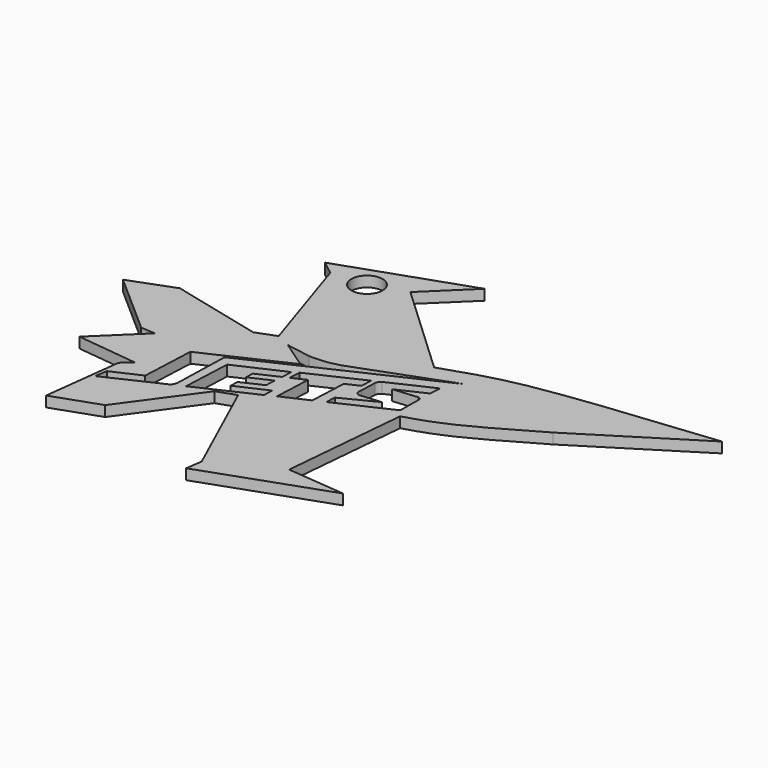
from build123d import *

# Parameters (mm, degrees)
F1_DEPTH = 2
F3_DEPTH = 25.4
F4_R     = 2.9673782323
F5_DEPTH = 25.4


with BuildPart() as f1:
    # F0 (on Top) → F1 (new body)
    with BuildSketch(Plane.XY):
        with BuildLine():
            Line((36.5334041417, 20.6077042967), (34.7164385021, 5.6545715779))
            Line((34.7164385021, 5.6545715779), (43.504524976, 8.7329633534))
            Line((43.504524976, 8.7329633534), (53.3858016133, 22.3565343767))
            Line((53.3858016133, 22.3565343767), (56.9245554507, 23.5919579864))
            Line((56.9245554507, 23.5919579864), (66.0541206598, 3.5111056641))
            Line((66.0541206598, 3.5111056641), (65.5934512615, 0.3702012473))
            Line((65.5934512615, 0.3702012473), (88.8780280948, 8.5993725806))
            Line((88.8780280948, 8.5993725806), (77.8220444918, 9.6044624224))
            Line((77.8220444918, 9.6044624224), (79.9770836988, 33.3098837159))
            add(Edge.make_bspline(
                [(100.9928658605, 43.4244535863), (95.8205314108, 40.4245140318), (87.218727926, 35.4354920021), (82.0412871818, 33.9157803728), (79.9770836988, 33.3098837159)],
                knots=[0, 0, 0, 0, 0.6013081395, 1, 1, 1, 1], degree=3))
            Line((100.9928658605, 43.4244535863), (122.4057301879, 56.8480975926))
            Line((122.4057301879, 56.8480975926), (100.9928658605, 54.5836277306))
            add(Edge.make_bspline(
                [(74.1065740585, 48.7466789782), (77.7375523931, 49.9883488185), (85.5402467252, 52.6566022015), (95.6093908771, 53.9122791626), (100.9928658605, 54.5836277306)],
                knots=[0, 0, 0, 0, 0.4653492986, 1, 1, 1, 1], degree=3))
            Line((74.1065740585, 48.7466789782), (56.1992712319, 65.4858723283))
            Line((56.1992712319, 65.4858723283), (64.1599148512, 73.2015818357))
            Line((64.1599148512, 73.2015818357), (40.3392016888, 64.9551600218))
            Line((40.3392016888, 64.9551600218), (43.0131666362, 62.9139691591))
            Line((43.0131666362, 62.9139691591), (49.7575812042, 42.1915054321))
            Line((49.7575812042, 42.1915054321), (46.0408888757, 40.785189718))
            Line((46.0408888757, 40.785189718), (28.6829099059, 45.0443252921))
            Line((28.6829099059, 45.0443252921), (20.3454550356, 41.9102460146))
            Line((20.3454550356, 41.9102460146), (32.1155525744, 31.5474160016))
            Line((32.1155525744, 31.5474160016), (34.8427295685, 31.390786171))
            Line((34.8427295685, 31.390786171), (26.7557948828, 23.5558375716))
            Line((26.7557948828, 23.5558375716), (38.4109728038, 22.2089737654))
            Line((38.4109728038, 22.2089737654), (36.5334041417, 20.6077042967))
        make_face()
    extrude(amount=F1_DEPTH)

    # F2 (on face) → F3 (cut)
    with BuildSketch(Plane.XY.offset(2)):
        with BuildLine():
            Line((42.2181976585, 19.8732110921), (36.8692806095, 17.4346802651))
            Line((36.8692806095, 17.4346802651), (36.4842974601, 15.086657103))
            Line((36.4842974601, 15.086657103), (46.7783554459, 19.8987160716))
            add(Edge.make_bspline(
                [(46.7783554459, 19.8987160716), (46.8745176, 19.9704084061), (47.0739666013, 20.1191047892), (47.2980762453, 20.485200609), (47.3842570525, 20.8264985477), (47.4302483861, 21.0086359383)],
                knots=[0, 0, 0, 0, 0.3027331314, 0.6278958833, 1, 1, 1, 1], degree=3))
            Line((47.4302483861, 21.0086359383), (47.7455708418, 31.8560887995))
            Line((47.7455708418, 31.8560887995), (81.0400521274, 47.3815603972))
            Line((81.0400521274, 47.3815603972), (62.989893266, 40.6838828661))
            add(Edge.make_bspline(
                [(62.989893266, 40.6838828661), (62.8558315332, 40.6463925764), (62.5252333481, 40.5539409762), (61.561398363, 40.2753929938), (60.1603447931, 40.0500849593), (58.6709939197, 39.9709989719), (57.7632965831, 39.984203494), (57.3223569205, 39.9906179643)],
                knots=[0, 0, 0, 0, 0.128570723, 0.3170572751, 0.5463912938, 0.7796467371, 1, 1, 1, 1], degree=3))
            Line((57.3223569205, 39.9906179643), (52.6017494717, 40.801062884))
            Line((52.6017494717, 40.801062884), (57.934057, 37.1581308102))
            Line((57.934057, 37.1581308102), (42.6651981272, 30.0381449865))
            Line((42.6651981272, 30.0381449865), (42.2181976585, 19.8732110921))
        make_face()
        Polygon((49.5022008402, 30.2405287443), (49.0949496514, 20.9795062106), (59.8999263935, 26.0145180069), (59.9547064443, 27.8990143615), (54.1489528303, 25.2522151997), (54.2186230073, 26.8365373498), (58.1639420177, 28.6762698182), (58.2499672688, 30.6325115923), (54.2469362683, 28.8075600354), (54.2916153656, 30.3445720468), (58.3938732965, 32.2574863357), (58.4538725188, 34.3215281581), align=None)
        Polygon((59.5222907582, 34.9345568584), (59.428932466, 32.8115593767), (59.4646008131, 32.7350683593), (61.9832756911, 33.9087458252), (61.6749329049, 26.8969320603), (66.5988146686, 29.1416925155), (66.910579019, 36.231313745), (69.3646524393, 37.3756669746), (69.4611082747, 39.5691035793), align=None)
        with BuildLine():
            Line((68.6329693369, 31.9457548078), (68.5782904095, 30.0647372126))
            Line((68.5782904095, 30.0647372126), (78.7814682825, 34.8225571923))
            Line((78.7814682825, 34.8225571923), (78.8403507658, 38.8965850372))
            add(Edge.make_bspline(
                [(78.2723558252, 39.7925434403), (78.3906581343, 39.7604877829), (78.6166051238, 39.6992643009), (78.8326978206, 39.4449395511), (78.8350317991, 39.281221064), (78.8383302277, 39.0426983364), (78.8403507658, 38.8965850372)],
                knots=[0, 0, 0, 0, 0.2775927016, 0.5301776076, 0.7121980765, 1, 1, 1, 1], degree=3))
            Line((78.2723558252, 39.7925434403), (73.6286103285, 39.3689603356))
            Line((73.6286103285, 39.3689603356), (78.8465645596, 41.8021323534))
            Line((78.8465645596, 41.8021323534), (79.0354909806, 44.0337115572))
            Line((79.0354909806, 44.0337115572), (70.9420511465, 40.2596785817))
            add(Edge.make_bspline(
                [(70.3706405965, 39.3610387878), (70.3940565505, 39.4260226012), (70.4447676448, 39.5667557219), (70.5089015879, 39.8524246499), (70.812566625, 40.1149514275), (70.9043252634, 40.2175116908), (70.9420511465, 40.2596785817)],
                knots=[0, 0, 0, 0, 0.2238252163, 0.4847302664, 0.788150674, 1, 1, 1, 1], degree=3))
            Line((70.3706405965, 39.3610387878), (70.2906058242, 36.2328217133))
            add(Edge.make_bspline(
                [(70.9504246956, 34.8178355773), (70.8567559171, 34.8408667038), (70.6527174927, 34.8910353388), (70.2713296013, 35.1507757935), (70.2107102416, 35.6389400995), (70.2627540341, 36.0257931705), (70.2906058242, 36.2328217133)],
                knots=[0, 0, 0, 0, 0.2072963417, 0.4515530113, 0.7064927503, 1, 1, 1, 1], degree=3))
            Line((70.9504246956, 34.8178355773), (75.0539136601, 35.1847569247))
            Line((75.0539136601, 35.1847569247), (68.6329693369, 31.9457548078))
        make_face()
    extrude(amount=-F3_DEPTH, mode=Mode.SUBTRACT)

    # F4 (on face) → F5 (cut)
    with BuildSketch(Plane.XY.offset(2)):
        with Locations((49.6815554798, 63.3011460304)):
            Circle(F4_R)
    extrude(amount=-F5_DEPTH, mode=Mode.SUBTRACT)


solid = f1.part
